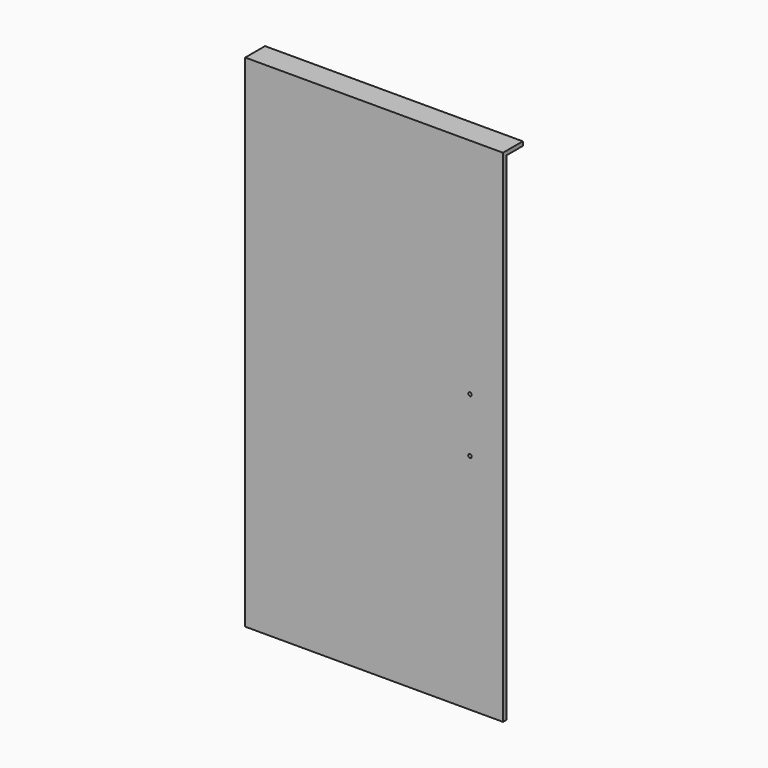
from build123d import *

# Parameters (mm, degrees)
F0_W     = 625
F0_H     = 1215
F1_DEPTH = 10
F3_DEPTH = 50
F5_D     = 8.5
F7_D     = 8.5


with BuildPart() as f1:
    # F0 (on Front) → F1 (new body)
    with BuildSketch(Plane.XZ):
        Rectangle(F0_W, F0_H)
    extrude(amount=F1_DEPTH)

    # F2 (on face) → F3 (join)
    with BuildSketch(Plane(origin=(0, 0, 0), x_dir=(-1, 0, 0), z_dir=(0, 1, 0))):
        Polygon((312.5, 607.5), (-312.5, 607.5), (-312.5, 597.500026), (302.500026, 597.500026), (302.500026, -607.5), (312.5, -607.5), align=None)
    extrude(amount=F3_DEPTH)

    # F5 (through all)
    with Locations(Plane.XZ.offset(10)):
        with Locations((232.5, 66), (232.5, -66)):
            Hole(F5_D / 2)

    # F7 (through all)
    with Locations(Plane(origin=(-312.5, 0, 0), x_dir=(0, -1, 0), z_dir=(-1, 0, 0))):
        with Locations((-20.25, 422.5), (-20.25, 362.5), (-20.25, -377.5), (-20.25, -437.5)):
            Hole(F7_D / 2)


solid = f1.part
